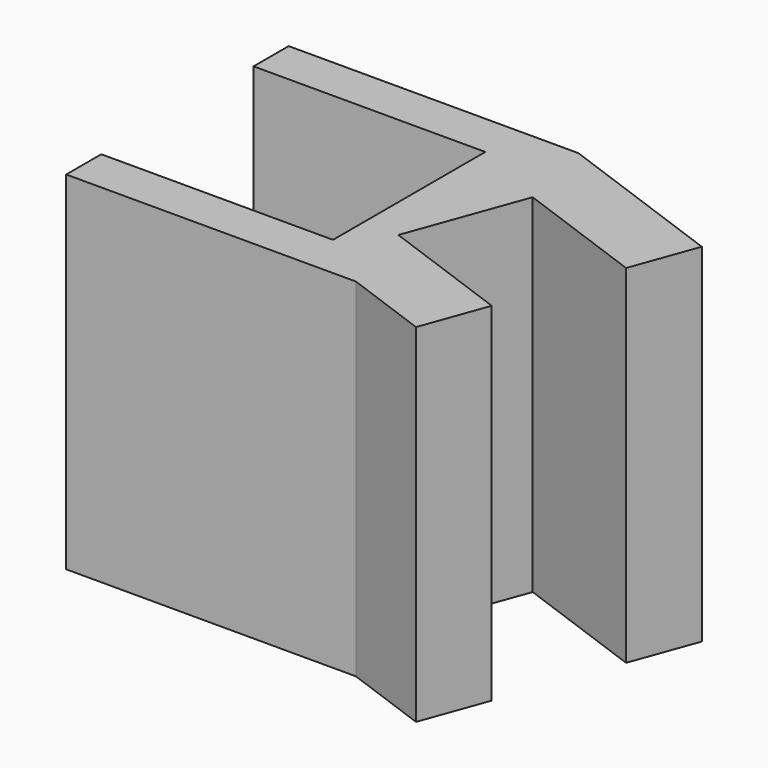
from build123d import *

# Parameters (mm, degrees)
F0_W     = 12.5
F0_H     = 12
F1_DEPTH = 15
F2_W     = 8.215
F2_H     = 15
F3_DEPTH = 10
F4_W     = 5.3
F4_H     = 15
F5_DEPTH = 6.05


with BuildPart() as f1:
    # F0 (on Top) → F1 (new body)
    with BuildSketch(Plane.XY):
        with Locations((-6.25, 6)):
            Rectangle(F0_W, F0_H)
        Polygon((0, 12), (0, 0), (3.6608153082, -1.3324278053), (7.5175409663, 9.2638388534), align=None)
    extrude(amount=F1_DEPTH)

    # F2 (on face) → F3 (cut)
    with BuildSketch(Plane(origin=(-12.5, 0, 0), x_dir=(0, -1, 0), z_dir=(-1, 0, 0))):
        with Locations((-6, 7.5)):
            Rectangle(F2_W, F2_H)
    extrude(amount=-F3_DEPTH, mode=Mode.SUBTRACT)

    # F4 (on face) → F5 (cut)
    with BuildSketch(Plane(origin=(3.6608153082, -1.3324278053, 0), x_dir=(0.3420201433, 0.9396926208, 0), z_dir=(0.9396926208, -0.3420201433, 0))):
        with Locations((5.6381557247, 7.5)):
            Rectangle(F4_W, F4_H)
    extrude(amount=-F5_DEPTH, mode=Mode.SUBTRACT)


solid = f1.part
